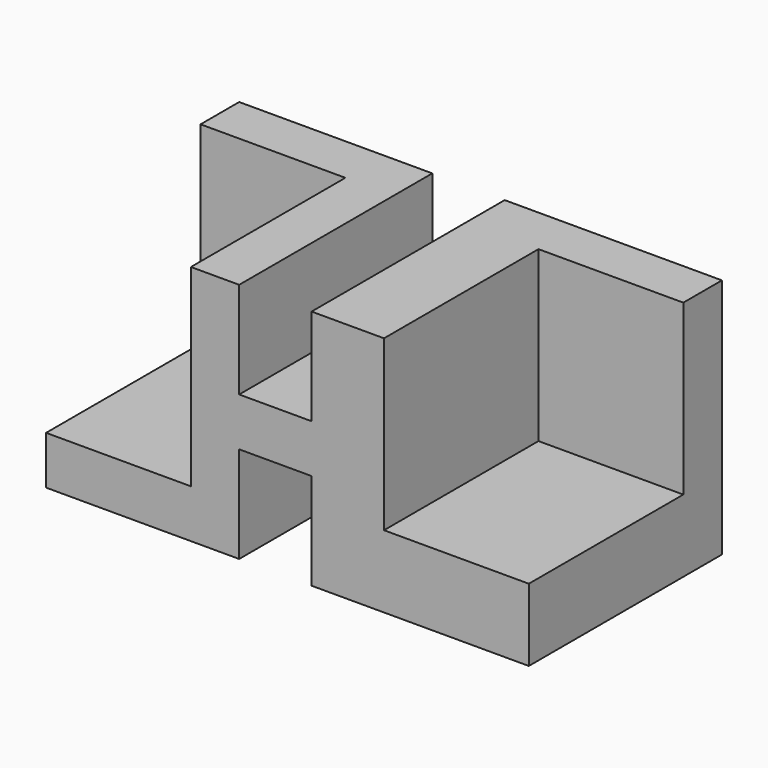
from build123d import *

# Parameters (mm, degrees)
F1_DEPTH = 50
F2_W     = 30
F2_H     = 40
F2_H_2   = 35
F3_DEPTH = 10


with BuildPart() as f1:
    # F0 (on Front) → F1 (new body)
    with BuildSketch(Plane.XZ):
        Polygon((-17.5, 50), (-17.5, 10), (-47.5, 10), (-47.5, 0), (-7.5, 0), (-7.5, 20), (7.5, 20), (7.5, 0), (52.5, 0), (52.5, 15), (22.5, 15), (22.5, 50), (7.5, 50), (7.5, 30), (-7.5, 30), (-7.5, 50), align=None)
    extrude(amount=F1_DEPTH)

    # F2 (on Front) → F3 (join)
    with BuildSketch(Plane.XZ):
        with Locations((-32.5, 30)):
            Rectangle(F2_W, F2_H)
        with Locations((37.5, 32.5)):
            Rectangle(F2_W, F2_H_2)
    extrude(amount=F3_DEPTH)


solid = f1.part
